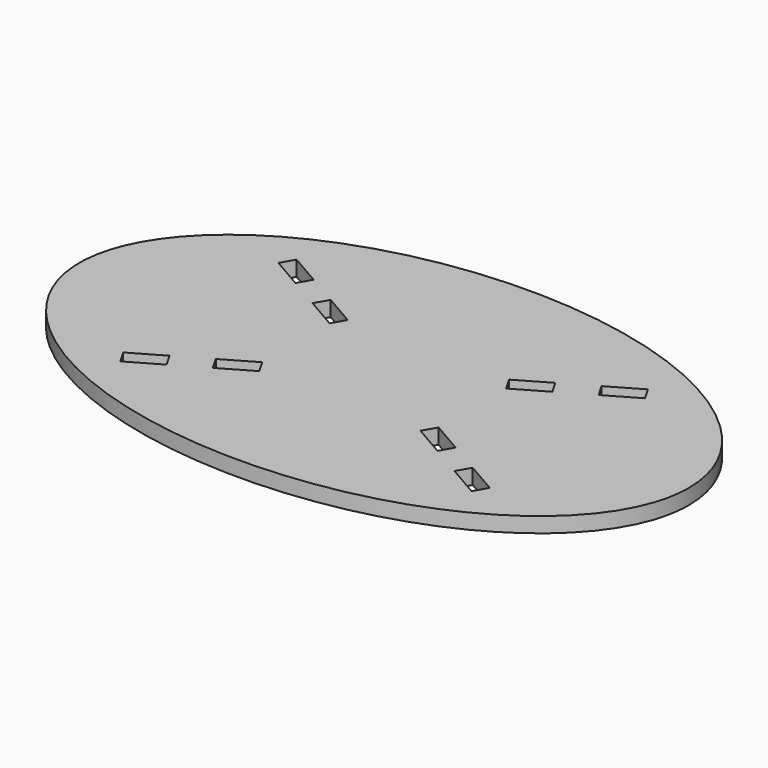
from build123d import *

# Parameters (mm, degrees)
F1_DEPTH = 25
F3_DEPTH = 25


with BuildPart() as f1:
    # F0 (on Top) → F1 (new body)
    with BuildSketch(Plane.XY):
        with BuildLine():
            add(Edge.make_bspline(
                [(500, 0), (500, 519.615242), (-250, 259.807621), (-1000, 0), (-250, -259.807621), (500, -519.615242), (500, 0)],
                knots=[0, 0, 0, 2.094395, 2.094395, 4.18879, 4.18879, 6.283185, 6.283185, 6.283185], degree=2, weights=[1, 0.5, 1, 0.5, 1, 0.5, 1]))
        make_face()
    extrude(amount=F1_DEPTH)

    # F2 (on face) → F3 (cut)
    with BuildSketch(Plane.XY.offset(25)):
        Polygon((-236.237113, 150.825318), (-288.198637, 180.825318), (-300.698637, 159.174682), (-248.737113, 129.174682), align=None)
        Polygon((-132.314065, 90.825318), (-184.275589, 120.825318), (-196.775589, 99.174682), (-144.814065, 69.174682), align=None)
        Polygon((-144.814065, -69.174682), (-196.775589, -99.174682), (-184.275589, -120.825318), (-132.314065, -90.825318), align=None)
        Polygon((-248.737113, -129.174682), (-300.698637, -159.174682), (-288.198637, -180.825318), (-236.237113, -150.825318), align=None)
        Polygon((144.814065, -69.174682), (132.314065, -90.825318), (184.275589, -120.825318), (196.775589, -99.174682), align=None)
        Polygon((288.198637, -180.825318), (300.698637, -159.174682), (248.737113, -129.174682), (236.237113, -150.825318), align=None)
        Polygon((288.198637, 180.825318), (236.237113, 150.825318), (248.737113, 129.174682), (300.698637, 159.174682), align=None)
        Polygon((144.814065, 69.174682), (196.775589, 99.174682), (184.275589, 120.825318), (132.314065, 90.825318), align=None)
    extrude(amount=-F3_DEPTH, mode=Mode.SUBTRACT)


solid = f1.part
